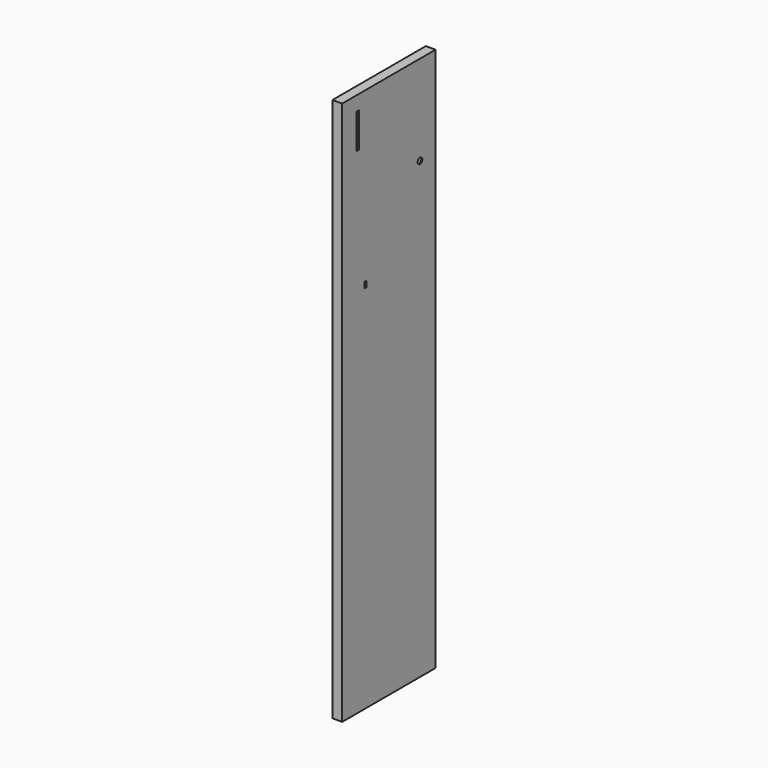
from build123d import *

# Parameters (mm, degrees)
PAD_DEPTH       = 5
SKETCH001_R     = 1.52
POCKET_DEPTH    = 0.5
SKETCH002_W     = 1.54
SKETCH002_H     = 18
POCKET001_DEPTH = 0.5
POCKET002_DEPTH = 0.5


with BuildPart() as part:
    # Sketch → Pad (new body)
    with BuildSketch(Plane.YZ):
        Polygon((0, 0), (-30, 0), (-30, 280), (30, 280), (30, 0), align=None)
    extrude(amount=-PAD_DEPTH)

    # Sketch001 → Pocket (cut)
    with BuildSketch(Plane.YZ):
        with Locations((20, 233.726693)):
            Circle(SKETCH001_R)
    extrude(amount=-POCKET_DEPTH, mode=Mode.SUBTRACT)

    # Sketch002 → Pocket001 (cut)
    with BuildSketch(Plane.YZ):
        with Locations((-20, 263.669193)):
            Rectangle(SKETCH002_W, SKETCH002_H)
    extrude(amount=-POCKET001_DEPTH, mode=Mode.SUBTRACT)

    # Sketch003 → Pocket002 (cut)
    with BuildSketch(Plane.YZ):
        with BuildLine():
            ThreePointArc((-15.5, 193.465807), (-15.690919, 193.386726), (-15.77, 193.195807))
            Line((-15.77, 190.735807), (-15.77, 193.195807))
            ThreePointArc((-15.77, 190.735807), (-15.690919, 190.544888), (-15.5, 190.465807))
            Line((-14.5, 190.465807), (-15.5, 190.465807))
            ThreePointArc((-14.5, 190.465807), (-14.309081, 190.544888), (-14.23, 190.735807))
            Line((-14.23, 193.195807), (-14.23, 190.735807))
            ThreePointArc((-14.23, 193.195807), (-14.309081, 193.386726), (-14.5, 193.465807))
            Line((-15.5, 193.465807), (-14.5, 193.465807))
        make_face()
    extrude(amount=-POCKET002_DEPTH, mode=Mode.SUBTRACT)


solid = part.part
